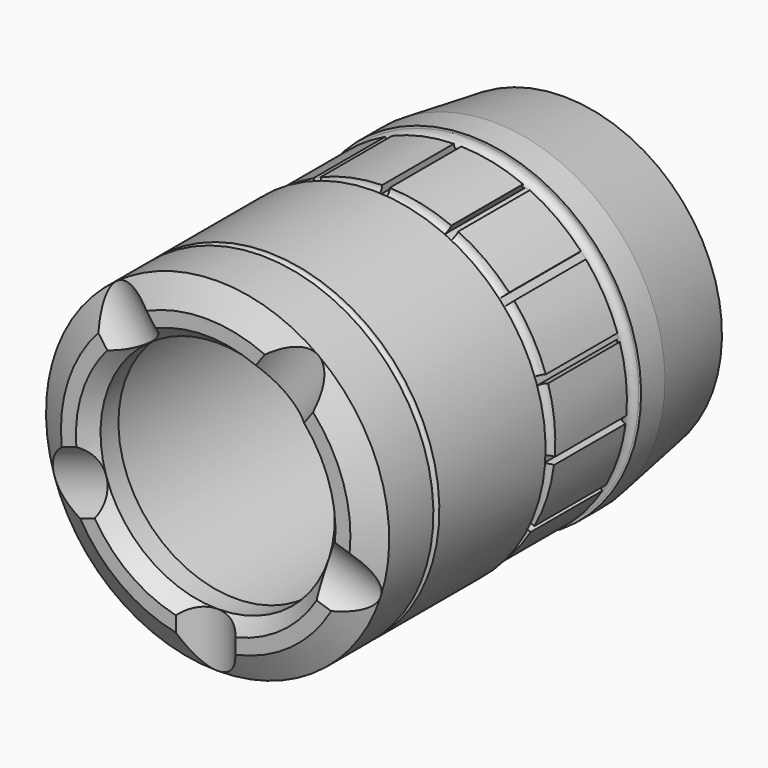
from build123d import *

# Parameters (mm, degrees)
F4_W      = 0.5
F4_H      = 0.752184
F5_DEPTH  = 7
F7_DEPTH  = 25
F10_DEPTH = 25
F13_DEPTH = 25
F16_DEPTH = 25
F19_DEPTH = 25


with BuildPart() as f2:
    # F0 (on Right) → F2 (revolve)
    with BuildSketch(Plane.YZ):
        with BuildLine():
            Line((1, 7.85), (2.5, 7.85))
            Line((2.5, 7.85), (2.5, 9))
            Line((2.5, 9), (18.9, 9))
            Line((18.9, 9), (18.9, 10))
            Line((18.9, 10), (30, 10))
            Line((30, 10), (30, 10.6))
            Line((30, 10.6), (24.1, 11.5))
            Line((24.1, 11.5), (22.1, 11.5))
            Line((22.1, 11.5), (22.1, 11.35))
            ThreePointArc((22.1, 11.35), (21.6, 10.85), (21.1, 11.35))
            Line((21.1, 11.35), (15.1, 11.35))
            ThreePointArc((15.1, 11.35), (14.6, 10.85), (14.1, 11.35))
            Line((14.1, 11.35), (14.1, 11.5))
            Line((14.1, 11.5), (5.2, 11.5))
            ThreePointArc((5.2, 11.5), (4.95, 11.25), (4.7, 11.5))
            Line((4.7, 11.5), (1, 11.5))
            Line((1, 11.5), (0, 9.7))
            Line((0, 9.7), (0, 8.7))
            Line((0, 8.7), (1, 7.85))
        make_face()
    revolve(axis=Axis((0, 14.583149, 0), (0, 1, 0)))

    # F4 (on offset) → F5 (cut)
    with BuildSketch(Plane.XZ.offset(-14.6)):
        with Locations((0, 11.226092)):
            Rectangle(F4_W, F4_H)
        Polygon((-4.184706, 10.013652), (-4.490647, 10.700807), (-4.94742, 10.497438), (-4.641479, 9.810284), align=None)
        Polygon((-7.895839, 7.445853), (-8.45482, 7.949163), (-8.789386, 7.57759), (-8.230404, 7.074281), align=None)
        Polygon((-10.241709, 3.590599), (-10.957078, 3.823036), (-11.111587, 3.347508), (-10.396217, 3.11507), align=None)
        Polygon((-10.816695, -0.885503), (-11.564758, -0.964128), (-11.512494, -1.461389), (-10.76443, -1.382764), align=None)
        Polygon((-9.521376, -5.208494), (-10.172786, -5.584586), (-9.922786, -6.017598), (-9.271376, -5.641506), align=None)
        Polygon((-6.579724, -8.630888), (-7.021847, -9.239418), (-6.617338, -9.53331), (-6.175216, -8.924781), align=None)
        Polygon((-2.500379, -10.560924), (-2.656767, -11.296671), (-2.167693, -11.400626), (-2.011305, -10.664879), align=None)
        Polygon((2.011305, -10.664879), (2.167693, -11.400626), (2.656767, -11.296671), (2.500379, -10.560924), align=None)
        Polygon((6.175216, -8.924781), (6.617338, -9.53331), (7.021847, -9.239418), (6.579724, -8.630888), align=None)
        Polygon((9.271376, -5.641506), (9.922786, -6.017598), (10.172786, -5.584586), (9.521376, -5.208494), align=None)
        Polygon((10.76443, -1.382764), (11.512494, -1.461389), (11.564758, -0.964128), (10.816695, -0.885503), align=None)
        Polygon((10.396217, 3.11507), (11.111587, 3.347508), (10.957078, 3.823036), (10.241709, 3.590599), align=None)
        Polygon((8.230404, 7.074281), (8.789386, 7.57759), (8.45482, 7.949163), (7.895839, 7.445853), align=None)
        Polygon((4.641479, 9.810284), (4.94742, 10.497438), (4.490647, 10.700807), (4.184706, 10.013652), align=None)
    extrude(amount=-F5_DEPTH, mode=Mode.SUBTRACT)

    # F6 (on Top) → F7 (cut)
    with BuildSketch(Plane.XY):
        with BuildLine():
            Line((-2, 0), (2, 0))
            ThreePointArc((2, 0), (0, 1), (-2, 0))
        make_face()
    extrude(amount=-F7_DEPTH, mode=Mode.SUBTRACT)

    # F9 (on line) → F10 (cut)
    with BuildSketch(Plane(origin=(0, 0, 0), x_dir=(0, -1, 0), z_dir=(-0.951057, 0, -0.309017))):
        with BuildLine():
            Line((0, -2), (0, 2))
            ThreePointArc((0, 2), (-1, 0), (0, -2))
        make_face()
    extrude(amount=F10_DEPTH, mode=Mode.SUBTRACT)

    # F12 (on face) → F13 (cut)
    with BuildSketch(Plane(origin=(0, 0, 0), x_dir=(0.809017, 0, 0.587785), z_dir=(0.587785, 0, -0.809017))):
        with BuildLine():
            Line((2, 0), (-2, 0))
            ThreePointArc((-2, 0), (0, -1), (2, 0))
        make_face()
    extrude(amount=-F13_DEPTH, mode=Mode.SUBTRACT)

    # F15 (on face) → F16 (cut)
    with BuildSketch(Plane(origin=(0, 0, 0), x_dir=(0.809017, 0, -0.587785), z_dir=(0.587785, 0, 0.809017))):
        with BuildLine():
            Line((-2, 0), (2, 0))
            ThreePointArc((2, 0), (0, 1), (-2, 0))
        make_face()
    extrude(amount=F16_DEPTH, mode=Mode.SUBTRACT)

    # F18 (on face) → F19 (cut)
    with BuildSketch(Plane(origin=(0, 0, 0), x_dir=(0, -1, 0), z_dir=(-0.951057, 0, 0.309017))):
        with BuildLine():
            Line((0, -2), (0, 2))
            ThreePointArc((0, 2), (-1, 0), (0, -2))
        make_face()
    extrude(amount=-F19_DEPTH, mode=Mode.SUBTRACT)


solid = f2.part
